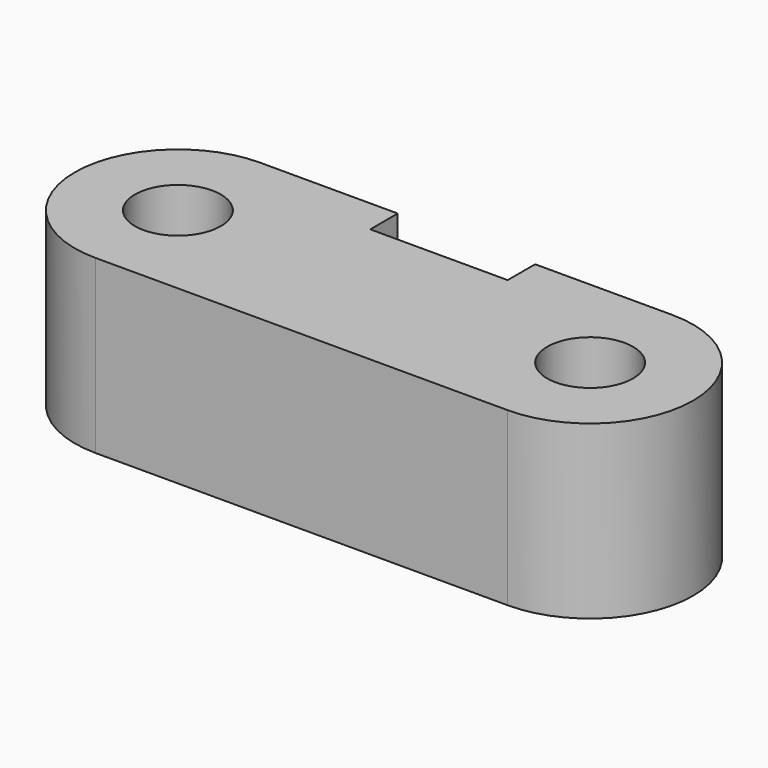
from build123d import *

# Parameters (mm, degrees)
F0_R     = 6.25
F1_DEPTH = 25


with BuildPart() as f1:
    # F0 (on Top) → F1 (new body)
    with BuildSketch(Plane.XY):
        with BuildLine():
            Line((20, 15), (0, 15))
            ThreePointArc((0, 15), (-15, 0), (0, -15))
            Line((0, -15), (60, -15))
            ThreePointArc((60, -15), (75, 0), (60, 15))
            Line((60, 15), (40, 15))
            Line((40, 15), (40, 10))
            Line((40, 10), (20, 10))
            Line((20, 10), (20, 15))
        make_face()
        Circle(F0_R, mode=Mode.SUBTRACT)
        with Locations((60, 0)):
            Circle(F0_R, mode=Mode.SUBTRACT)
    extrude(amount=F1_DEPTH)


solid = f1.part
